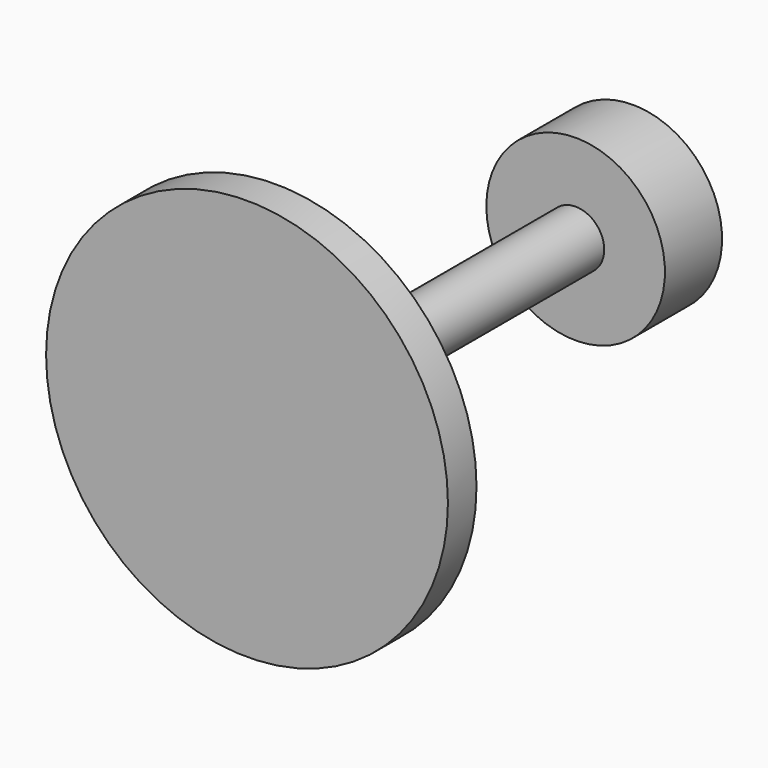
from build123d import *

# Parameters (mm, degrees)
F0_R     = 3.2
F1_DEPTH = 20
F2_R     = 10
F3_DEPTH = 10
F4_R     = 22.5
F4_R_2   = 10
F5_DEPTH = 4
F6_R     = 10
F6_R_2   = 3.2
F7_DEPTH = 8


with BuildPart() as f1:
    # F0 (on Front) → F1 (new body, symmetric)
    with BuildSketch(Plane.XZ):
        with Locations((-28.7347137928, 70.5637484789)):
            Circle(F0_R)
    extrude(amount=F1_DEPTH, both=True)

    # F2 (on face) → F3 (join)
    with BuildSketch(Plane.XZ.offset(20)):
        with Locations((-28.7347137928, 70.5637484789)):
            Circle(F2_R)
    extrude(amount=F3_DEPTH)

    # F4 (on face) → F5 (join)
    with BuildSketch(Plane.XZ.offset(30)):
        with Locations((-28.7347137928, 70.5637484789)):
            Circle(F4_R)
        with Locations((-28.7347137928, 70.5637484789)):
            Circle(F4_R_2, mode=Mode.SUBTRACT)
        with Locations((-28.7347137928, 70.5637484789)):
            Circle(F4_R_2)
    extrude(amount=F5_DEPTH)

    # F6 (on face) → F7 (join)
    with BuildSketch(Plane(origin=(0, 20, 0), x_dir=(-1, 0, 0), z_dir=(0, 1, 0))):
        with Locations((28.7347137928, 70.5637484789)):
            Circle(F6_R)
        with Locations((28.7347137928, 70.5637484789)):
            Circle(F6_R_2, mode=Mode.SUBTRACT)
    extrude(amount=-F7_DEPTH)


solid = f1.part
